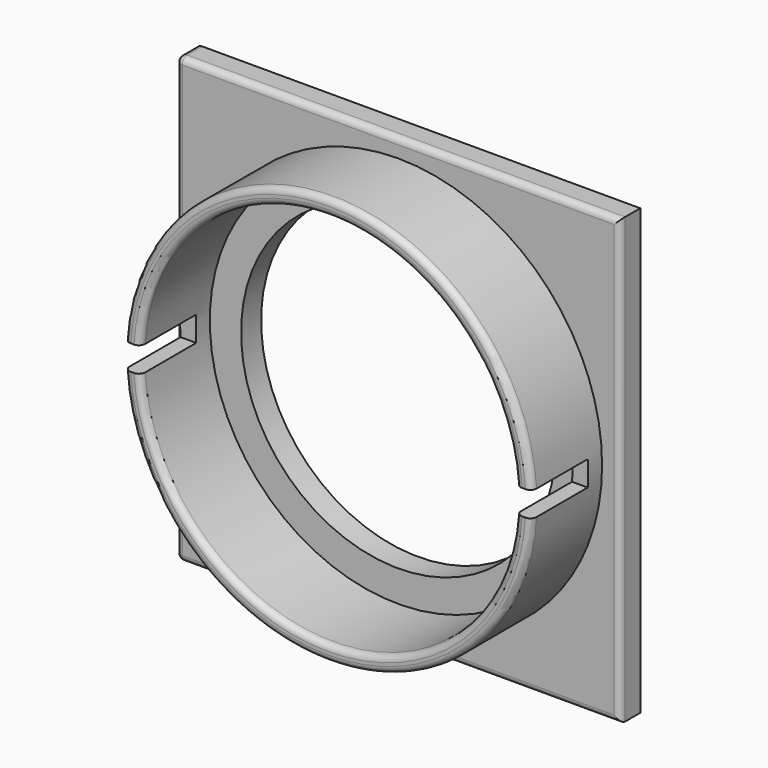
from build123d import *

# Parameters (mm, degrees)
SKETCH_R          = 16.3
SKETCH_R_2        = 15.05
PAD_DEPTH         = 7
SKETCH001_W       = 35.5
SKETCH001_H       = 35.5
SKETCH001_R       = 12.55
PAD001_DEPTH      = 2
SKETCH002_W       = 5.6
SKETCH002_H       = 2
POCKET_DEPTH      = 25
POCKET_DEPTH_BACK = 25
FILLET002_R       = 0.5
FILLET003_R       = 0.5
FILLET004_R       = 0.5


with BuildPart() as part:
    # Sketch → Pad (new body)
    with BuildSketch(Plane.XZ):
        Circle(SKETCH_R)
        Circle(SKETCH_R_2, mode=Mode.SUBTRACT)
    extrude(amount=PAD_DEPTH)

    # Sketch001 → Pad001 (join)
    with BuildSketch(Plane.XZ):
        Rectangle(SKETCH001_W, SKETCH001_H)
        Circle(SKETCH001_R, mode=Mode.SUBTRACT)
    extrude(amount=-PAD001_DEPTH)

    # Sketch002 (on DatumPlane) → Pocket (cut, two sides)
    with BuildSketch(Plane.YZ) as pocket_sk:
        with Locations((-4.2, 0)):
            Rectangle(SKETCH002_W, SKETCH002_H)
    extrude(amount=-POCKET_DEPTH, mode=Mode.SUBTRACT)
    extrude(pocket_sk.sketch, amount=POCKET_DEPTH_BACK, mode=Mode.SUBTRACT)

    # Fillet002
    fillet002_edges = [part.edges().sort_by_distance(p)[0] for p in [
        (-17.75, 1, -17.75),
        (-17.75, 1, 17.75),
    ]]
    fillet(fillet002_edges, radius=FILLET002_R)

    # Fillet003
    fillet003_edges = [part.edges().sort_by_distance(p)[0] for p in [
        (-17.75, 0, 0),
        (0.25, 0, 17.75),
        (0.25, 0, -17.75),
        (17.75, 0, 0),
    ]]
    fillet(fillet003_edges, radius=FILLET003_R)

    # Fillet004
    fillet004_edges = [part.edges().sort_by_distance(p)[0] for p in [
        (0, -7, 15.05),
        (0, -7, 16.3),
        (0, -7, -16.3),
        (0, -7, -15.05),
    ]]
    fillet(fillet004_edges, radius=FILLET004_R)


with BuildPart() as part_1:
    # Body placement: moved
    add(part.part.moved(Location((0, -3, 0))))


solid = part_1.part
